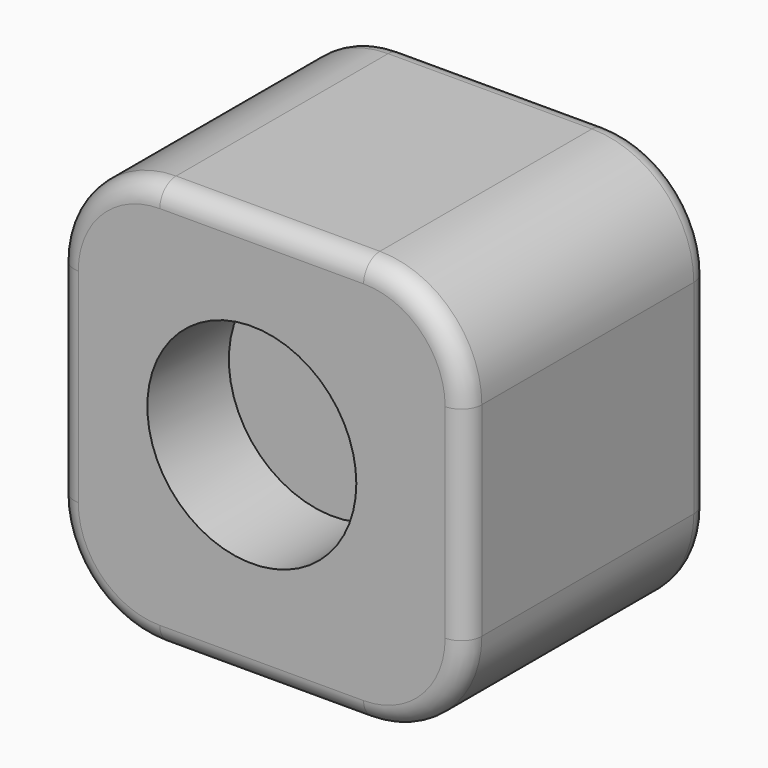
from build123d import *

# Parameters (mm, degrees)
F1_DEPTH = 75
F2_R     = 5
F3_R     = 25.635066
F4_DEPTH = 25


with BuildPart() as f1:
    # F0 (on Front) → F1 (new body)
    with BuildSketch(Plane.XZ):
        with BuildLine():
            Line((24.407001, 77.690751), (-25.592999, 77.690751))
            ThreePointArc((-25.592999, 77.690751), (-43.270669, 70.36842), (-50.592999, 52.690751))
            Line((-50.592999, 52.690751), (-50.592999, 2.690751))
            ThreePointArc((-50.592999, 2.690751), (-43.270669, -14.986919), (-25.592999, -22.309249))
            Line((-25.592999, -22.309249), (24.407001, -22.309249))
            ThreePointArc((24.407001, -22.309249), (42.08467, -14.986919), (49.407001, 2.690751))
            Line((49.407001, 2.690751), (49.407001, 52.690751))
            ThreePointArc((49.407001, 52.690751), (42.08467, 70.36842), (24.407001, 77.690751))
        make_face()
    extrude(amount=F1_DEPTH)

    # F2
    f2_edges = [f1.edges().sort_by_distance(p)[0] for p in [
        (24.407001, -37.5, 77.690751),
        (-0.592999, -75, 77.690751),
        (42.08467, -75, 70.36842),
        (-50.592999, -37.5, 2.690751),
        (-50.592999, 0, 27.690751),
        (-43.270669, 0, -14.986919),
        (42.08467, 0, 70.36842),
        (49.407001, 0, 27.690751),
        (-0.592999, 0, 77.690751),
        (-43.270669, 0, 70.36842),
        (-0.592999, 0, -22.309249),
        (42.08467, 0, -14.986919),
    ]]
    fillet(f2_edges, radius=F2_R)

    # F3 (on face) → F4 (cut)
    with BuildSketch(Plane.XZ.offset(75)):
        with Locations((-3.018171, 28.991828)):
            Circle(F3_R)
    extrude(amount=-F4_DEPTH, mode=Mode.SUBTRACT)


solid = f1.part
